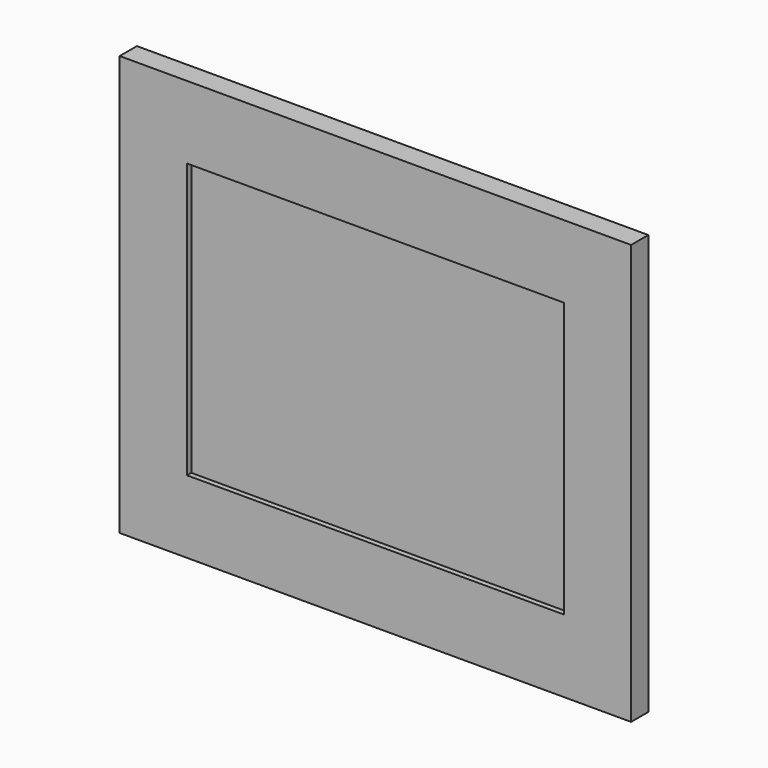
from build123d import *

# Parameters (mm, degrees)
F0_W      = 95
F0_H      = 78
F1_DEPTH  = 4
F2_W      = 70
F2_H      = 51
F3_DEPTH  = 1
F4_W      = 93
F4_H      = 76
F4_W_2    = 70
F4_H_2    = 51
F5_DEPTH  = 2
F6_W      = 70
F6_H      = 51
F7_DEPTH  = 1
F8_R      = 13
F9_DEPTH  = 1
F10_W     = 3
F10_H     = 3
F11_DEPTH = 10


with BuildPart() as f1:
    # F0 (on Front) → F1 (new body)
    with BuildSketch(Plane.XZ):
        Rectangle(F0_W, F0_H)
    extrude(amount=F1_DEPTH)

    # F2 (on face) → F3 (cut)
    with BuildSketch(Plane(origin=(0, 0, 0), x_dir=(-1, 0, 0), z_dir=(0, 1, 0))):
        Rectangle(F2_W, F2_H)
    extrude(amount=-F3_DEPTH, mode=Mode.SUBTRACT)

    # F4 (on face) → F5 (cut)
    with BuildSketch(Plane(origin=(0, 0, 0), x_dir=(-1, 0, 0), z_dir=(0, 1, 0))):
        Rectangle(F4_W, F4_H)
        Rectangle(F4_W_2, F4_H_2, mode=Mode.SUBTRACT)
    extrude(amount=-F5_DEPTH, mode=Mode.SUBTRACT)

    # F6 (on face) → F7 (cut)
    with BuildSketch(Plane.XZ.offset(4)):
        Rectangle(F6_W, F6_H)
    extrude(amount=-F7_DEPTH, mode=Mode.SUBTRACT)

    # F8 (on face) → F9 (join)
    with BuildSketch(Plane(origin=(0, -1, 0), x_dir=(-1, 0, 0), z_dir=(0, 1, 0))):
        Circle(F8_R)
    extrude(amount=F9_DEPTH)

    # F10 (on face) → F11 (join)
    with BuildSketch(Plane(origin=(0, 0, 0), x_dir=(-1, 0, 0), z_dir=(0, 1, 0))):
        Rectangle(F10_W, F10_H)
    extrude(amount=F11_DEPTH)


solid = f1.part
